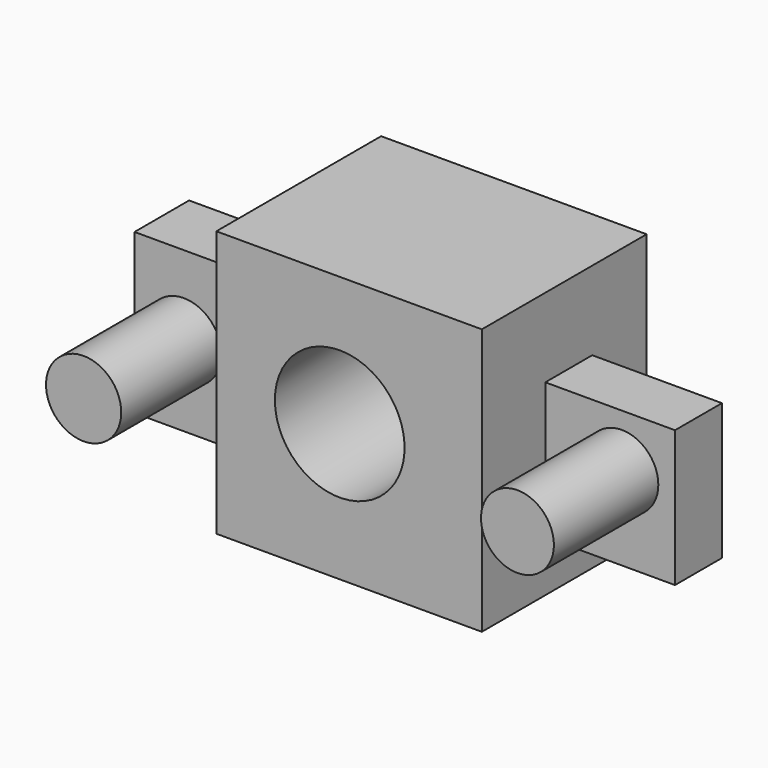
from build123d import *

# Parameters (mm, degrees)
F0_W      = 26.593355462
F0_H      = 52.1527305245
F1_DEPTH  = 25.4
F2_DEPTH  = 25.4
F3_DEPTH  = 14.93277587
F6_D      = 25.4
F8_W      = 11.4883370697
F8_H      = 26.7024151981
F9_DEPTH  = 25.4
F10_W     = 13.3622530848
F10_H     = 31.2255714089
F11_DEPTH = 25.4
F12_R     = 7.1407496184
F13_DEPTH = 25.5624204874
F14_R     = 7.3663727873
F15_DEPTH = 24.5301295072


with BuildPart() as f1:
    # F0 (on Front) → F1 (new body)
    with BuildSketch(Plane.XZ):
        with Locations((6.2094768509, -19.6972563863)):
            Rectangle(F0_W, F0_H)
    extrude(amount=F1_DEPTH)

    # F2 (add): a face of the model
    f2_faces = [f1.faces().sort_by_distance(p)[0] for p in [
        (19.5061545819, -12.7, -19.6972563863),
    ]]
    extrude(f2_faces, amount=F2_DEPTH)

    # F3 (add): a face of the model
    f3_faces = [f1.faces().sort_by_distance(p)[0] for p in [
        (18.9094768509, -25.4, -19.6972563863),
    ]]
    extrude(f3_faces, amount=F3_DEPTH)

    # F6 (through all)
    with Locations(Plane.XZ.offset(40.33277587)):
        with Locations((17.0706212521, -18.9784392715)):
            Hole(F6_D / 2)

    # F8 (on face) → F9 (join)
    with BuildSketch(Plane.YZ.offset(44.9061545819)):
        with Locations((-19.0554484725, -22.4194079638)):
            Rectangle(F8_W, F8_H)
    extrude(amount=F9_DEPTH)

    # F10 (on face) → F11 (join)
    with BuildSketch(Plane(origin=(-7.0872008801, 0, 0), x_dir=(0, -1, 0), z_dir=(-1, 0, 0))):
        with Locations((21.9391398132, -22.3693735898)):
            Rectangle(F10_W, F10_H)
    extrude(amount=F11_DEPTH)

    # F12 (on face) → F13 (join)
    with BuildSketch(Plane.XZ.offset(24.7996170074)):
        with Locations((59.9011927843, -19.5363089442)):
            Circle(F12_R)
    extrude(amount=F13_DEPTH)

    # F14 (on face) → F15 (join)
    with BuildSketch(Plane.XZ.offset(28.6202663556)):
        with Locations((-22.8306427598, -22.3814845085)):
            Circle(F14_R)
    extrude(amount=F15_DEPTH)


solid = f1.part
